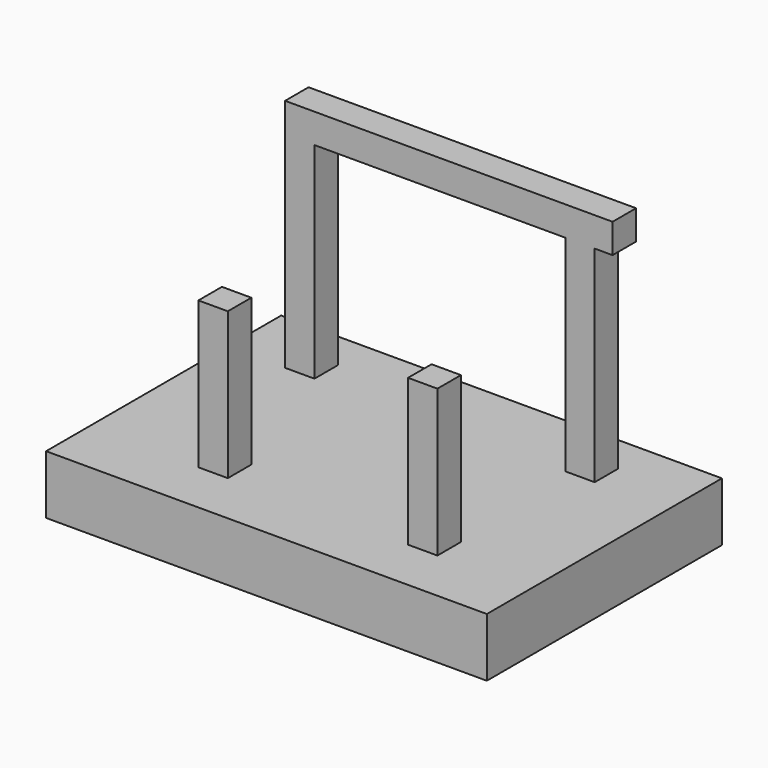
from build123d import *

# Parameters (mm, degrees)
F0_W     = 150
F0_H     = 100
F1_DEPTH = 20
F2_W     = 10
F2_H     = 10
F3_DEPTH = 70
F2_W_2   = 10.0076
F2_H_2   = 10.0076
F4_DEPTH = 50
F5_W     = 111.453053
F5_H     = 10
F6_DEPTH = 10


with BuildPart() as f1:
    # F0 (on Top) → F1 (new body)
    with BuildSketch(Plane.XY):
        with Locations((55.377272, 49.499587)):
            Rectangle(F0_W, F0_H)
    extrude(amount=F1_DEPTH)

    # F2 (on face) → F3 (join)
    with BuildSketch(Plane.XY.offset(20)):
        with Locations((5, 81.634671)):
            Rectangle(F2_W, F2_H)
        with Locations((100.377272, 81.634671)):
            Rectangle(F2_W, F2_H)
    extrude(amount=F3_DEPTH)

    # F2 (on face) → F4 (join)
    with BuildSketch(Plane.XY.offset(20)):
        with Locations((22.783541, 22.548811)):
            Rectangle(F2_W_2, F2_H_2)
        with Locations((94.102842, 22.564183)):
            Rectangle(F2_W, F2_H)
    extrude(amount=F4_DEPTH)

    # F5 (on face) → F6 (join)
    with BuildSketch(Plane.XY.offset(90)):
        with Locations((55.726526, 81.634671)):
            Rectangle(F5_W, F5_H)
    extrude(amount=F6_DEPTH)


solid = f1.part
